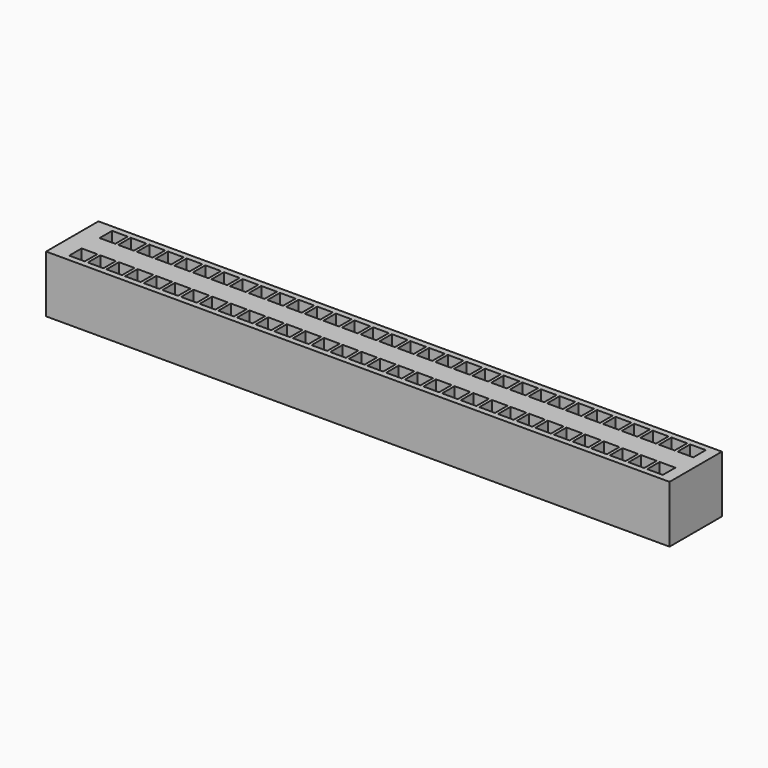
from build123d import *

# Parameters (mm, degrees)
F1_DEPTH = 15


with BuildPart() as f1:
    # F0 (on Top) → F1 (new body)
    with BuildSketch(Plane.XY):
        Polygon((2.600563, 5), (0, 5), (-0.4, 5), (-0.4, 2.95), (-4.5, 2.95), (-4.5, 5), (-5.3, 5), (-5.3, 2.95), (-9.4, 2.95), (-9.4, 5), (-9.8, 5), (-10.2, 5), (-10.2, 2.95), (-14.3, 2.95), (-14.3, 5), (-15.1, 5), (-15.1, 2.95), (-19.2, 2.95), (-19.2, 5), (-19.6, 5), (-20, 5), (-20, 2.95), (-24.1, 2.95), (-24.1, 5), (-24.9, 5), (-24.9, 2.95), (-29, 2.95), (-29, 5), (-29.4, 5), (-29.8, 5), (-29.8, 2.95), (-33.9, 2.95), (-33.9, 5), (-34.7, 5), (-34.7, 2.95), (-38.8, 2.95), (-38.8, 5), (-39.2, 5), (-39.6, 5), (-39.6, 2.95), (-43.7, 2.95), (-43.7, 5), (-44.5, 5), (-44.5, 2.95), (-48.6, 2.95), (-48.6, 5), (-49, 5), (-49.4, 5), (-49.4, 2.95), (-53.5, 2.95), (-53.5, 5), (-54.3, 5), (-54.3, 2.95), (-58.4, 2.95), (-58.4, 5), (-58.8, 5), (-59.2, 5), (-59.2, 2.95), (-63.3, 2.95), (-63.3, 5), (-64.1, 5), (-64.1, 2.95), (-68.2, 2.95), (-68.2, 5), (-68.6, 5), (-69, 5), (-69, 2.95), (-73.1, 2.95), (-73.1, 5), (-73.9, 5), (-73.9, 2.95), (-78, 2.95), (-78, 5), (-78.4, 5), (-78.8, 5), (-78.8, 2.95), (-82.9, 2.95), (-82.9, 5), (-83.7, 5), (-83.7, 2.95), (-87.8, 2.95), (-87.8, 5), (-88.2, 5), (-88.6, 5), (-88.6, 2.95), (-92.7, 2.95), (-92.7, 5), (-93.5, 5), (-93.5, 2.95), (-97.6, 2.95), (-97.6, 5), (-98, 5), (-98.4, 5), (-98.4, 2.95), (-102.5, 2.95), (-102.5, 5), (-103.3, 5), (-103.3, 2.95), (-107.4, 2.95), (-107.4, 5), (-107.8, 5), (-108.2, 5), (-108.2, 2.95), (-112.3, 2.95), (-112.3, 5), (-113.1, 5), (-113.1, 2.95), (-117.2, 2.95), (-117.2, 5), (-117.6, 5), (-118, 5), (-118, 2.95), (-122.1, 2.95), (-122.1, 5), (-122.9, 5), (-122.9, 2.95), (-127, 2.95), (-127, 5), (-127.4, 5), (-127.8, 5), (-127.8, 2.95), (-131.9, 2.95), (-131.9, 5), (-132.7, 5), (-132.7, 2.95), (-136.8, 2.95), (-136.8, 5), (-137.2, 5), (-137.6, 5), (-137.6, 2.95), (-141.7, 2.95), (-141.7, 5), (-142.5, 5), (-142.5, 2.95), (-146.6, 2.95), (-146.6, 5), (-147, 5), (-147.4, 5), (-147.4, 2.95), (-151.5, 2.95), (-151.5, 5), (-152.3, 5), (-152.3, 2.95), (-156.4, 2.95), (-156.4, 5), (-156.8, 5), (-160.812712, 5), (-161.233053, 5), (-161.233053, -8.6), (2.600563, -8.6), (2.600563, -5), align=None)
        Polygon((-152.3, -2.95), (-152.3, -5), (-152.3, -7.05), (-156.4, -7.05), (-156.4, -5), (-156.4, -2.95), align=None, mode=Mode.SUBTRACT)
        Polygon((-147.4, -2.95), (-147.4, -5), (-147.4, -7.05), (-151.5, -7.05), (-151.5, -5), (-151.5, -2.95), align=None, mode=Mode.SUBTRACT)
        Polygon((-142.5, -2.95), (-142.5, -5), (-142.5, -7.05), (-146.6, -7.05), (-146.6, -5), (-146.6, -2.95), align=None, mode=Mode.SUBTRACT)
        Polygon((-137.6, -2.95), (-137.6, -5), (-137.6, -7.05), (-141.7, -7.05), (-141.7, -5), (-141.7, -2.95), align=None, mode=Mode.SUBTRACT)
        Polygon((-132.7, -2.95), (-132.7, -5), (-132.7, -7.05), (-136.8, -7.05), (-136.8, -5), (-136.8, -2.95), align=None, mode=Mode.SUBTRACT)
        Polygon((-127.8, -2.95), (-127.8, -5), (-127.8, -7.05), (-131.9, -7.05), (-131.9, -5), (-131.9, -2.95), align=None, mode=Mode.SUBTRACT)
        Polygon((-122.9, -2.95), (-122.9, -5), (-122.9, -7.05), (-127, -7.05), (-127, -5), (-127, -2.95), align=None, mode=Mode.SUBTRACT)
        Polygon((-118, -2.95), (-118, -5), (-118, -7.05), (-122.1, -7.05), (-122.1, -5), (-122.1, -2.95), align=None, mode=Mode.SUBTRACT)
        Polygon((-113.1, -2.95), (-113.1, -5), (-113.1, -7.05), (-117.2, -7.05), (-117.2, -5), (-117.2, -2.95), align=None, mode=Mode.SUBTRACT)
        Polygon((-108.2, -2.95), (-108.2, -5), (-108.2, -7.05), (-112.3, -7.05), (-112.3, -5), (-112.3, -2.95), align=None, mode=Mode.SUBTRACT)
        Polygon((-103.3, -2.95), (-103.3, -5), (-103.3, -7.05), (-107.4, -7.05), (-107.4, -5), (-107.4, -2.95), align=None, mode=Mode.SUBTRACT)
        Polygon((-98.4, -2.95), (-98.4, -5), (-98.4, -7.05), (-102.5, -7.05), (-102.5, -5), (-102.5, -2.95), align=None, mode=Mode.SUBTRACT)
        Polygon((-93.5, -2.95), (-93.5, -5), (-93.5, -7.05), (-97.6, -7.05), (-97.6, -5), (-97.6, -2.95), align=None, mode=Mode.SUBTRACT)
        Polygon((-88.6, -2.95), (-88.6, -5), (-88.6, -7.05), (-92.7, -7.05), (-92.7, -5), (-92.7, -2.95), align=None, mode=Mode.SUBTRACT)
        Polygon((-83.7, -2.95), (-83.7, -5), (-83.7, -7.05), (-87.8, -7.05), (-87.8, -5), (-87.8, -2.95), align=None, mode=Mode.SUBTRACT)
        Polygon((-78.8, -2.95), (-78.8, -5), (-78.8, -7.05), (-82.9, -7.05), (-82.9, -5), (-82.9, -2.95), align=None, mode=Mode.SUBTRACT)
        Polygon((-73.9, -2.95), (-73.9, -5), (-73.9, -7.05), (-78, -7.05), (-78, -5), (-78, -2.95), align=None, mode=Mode.SUBTRACT)
        Polygon((-69, -2.95), (-69, -5), (-69, -7.05), (-73.1, -7.05), (-73.1, -5), (-73.1, -2.95), align=None, mode=Mode.SUBTRACT)
        Polygon((-64.1, -2.95), (-64.1, -5), (-64.1, -7.05), (-68.2, -7.05), (-68.2, -5), (-68.2, -2.95), align=None, mode=Mode.SUBTRACT)
        Polygon((-59.2, -2.95), (-59.2, -5), (-59.2, -7.05), (-63.3, -7.05), (-63.3, -5), (-63.3, -2.95), align=None, mode=Mode.SUBTRACT)
        Polygon((-54.3, -2.95), (-54.3, -5), (-54.3, -7.05), (-58.4, -7.05), (-58.4, -5), (-58.4, -2.95), align=None, mode=Mode.SUBTRACT)
        Polygon((-49.4, -2.95), (-49.4, -5), (-49.4, -7.05), (-53.5, -7.05), (-53.5, -5), (-53.5, -2.95), align=None, mode=Mode.SUBTRACT)
        Polygon((-44.5, -2.95), (-44.5, -5), (-44.5, -7.05), (-48.6, -7.05), (-48.6, -5), (-48.6, -2.95), align=None, mode=Mode.SUBTRACT)
        Polygon((-39.6, -2.95), (-39.6, -5), (-39.6, -7.05), (-43.7, -7.05), (-43.7, -5), (-43.7, -2.95), align=None, mode=Mode.SUBTRACT)
        Polygon((-34.7, -2.95), (-34.7, -5), (-34.7, -7.05), (-38.8, -7.05), (-38.8, -5), (-38.8, -2.95), align=None, mode=Mode.SUBTRACT)
        Polygon((-29.8, -2.95), (-29.8, -5), (-29.8, -7.05), (-33.9, -7.05), (-33.9, -5), (-33.9, -2.95), align=None, mode=Mode.SUBTRACT)
        Polygon((-24.9, -2.95), (-24.9, -5), (-24.9, -7.05), (-29, -7.05), (-29, -5), (-29, -2.95), align=None, mode=Mode.SUBTRACT)
        Polygon((-20, -2.95), (-20, -5), (-20, -7.05), (-24.1, -7.05), (-24.1, -5), (-24.1, -2.95), align=None, mode=Mode.SUBTRACT)
        Polygon((-15.1, -2.95), (-15.1, -5), (-15.1, -7.05), (-19.2, -7.05), (-19.2, -5), (-19.2, -2.95), align=None, mode=Mode.SUBTRACT)
        Polygon((-10.2, -2.95), (-10.2, -5), (-10.2, -7.05), (-14.3, -7.05), (-14.3, -5), (-14.3, -2.95), align=None, mode=Mode.SUBTRACT)
        Polygon((-5.3, -2.95), (-5.3, -5), (-5.3, -7.05), (-9.4, -7.05), (-9.4, -5), (-9.4, -2.95), align=None, mode=Mode.SUBTRACT)
        Polygon((-0.4, -2.95), (-0.4, -5), (-0.4, -7.05), (-4.5, -7.05), (-4.5, -5), (-4.5, -2.95), align=None, mode=Mode.SUBTRACT)
        Polygon((-0.4, 5), (0, 5), (2.600563, 5), (2.600563, 8.6), (-161.233053, 8.6), (-161.233053, 5), (-160.812712, 5), (-156.8, 5), (-156.4, 5), (-156.4, 7.05), (-152.3, 7.05), (-152.3, 5), (-151.5, 5), (-151.5, 7.05), (-147.4, 7.05), (-147.4, 5), (-147, 5), (-146.6, 5), (-146.6, 7.05), (-142.5, 7.05), (-142.5, 5), (-141.7, 5), (-141.7, 7.05), (-137.6, 7.05), (-137.6, 5), (-137.2, 5), (-136.8, 5), (-136.8, 7.05), (-132.7, 7.05), (-132.7, 5), (-131.9, 5), (-131.9, 7.05), (-127.8, 7.05), (-127.8, 5), (-127.4, 5), (-127, 5), (-127, 7.05), (-122.9, 7.05), (-122.9, 5), (-122.1, 5), (-122.1, 7.05), (-118, 7.05), (-118, 5), (-117.6, 5), (-117.2, 5), (-117.2, 7.05), (-113.1, 7.05), (-113.1, 5), (-112.3, 5), (-112.3, 7.05), (-108.2, 7.05), (-108.2, 5), (-107.8, 5), (-107.4, 5), (-107.4, 7.05), (-103.3, 7.05), (-103.3, 5), (-102.5, 5), (-102.5, 7.05), (-98.4, 7.05), (-98.4, 5), (-98, 5), (-97.6, 5), (-97.6, 7.05), (-93.5, 7.05), (-93.5, 5), (-92.7, 5), (-92.7, 7.05), (-88.6, 7.05), (-88.6, 5), (-88.2, 5), (-87.8, 5), (-87.8, 7.05), (-83.7, 7.05), (-83.7, 5), (-82.9, 5), (-82.9, 7.05), (-78.8, 7.05), (-78.8, 5), (-78.4, 5), (-78, 5), (-78, 7.05), (-73.9, 7.05), (-73.9, 5), (-73.1, 5), (-73.1, 7.05), (-69, 7.05), (-69, 5), (-68.6, 5), (-68.2, 5), (-68.2, 7.05), (-64.1, 7.05), (-64.1, 5), (-63.3, 5), (-63.3, 7.05), (-59.2, 7.05), (-59.2, 5), (-58.8, 5), (-58.4, 5), (-58.4, 7.05), (-54.3, 7.05), (-54.3, 5), (-53.5, 5), (-53.5, 7.05), (-49.4, 7.05), (-49.4, 5), (-49, 5), (-48.6, 5), (-48.6, 7.05), (-44.5, 7.05), (-44.5, 5), (-43.7, 5), (-43.7, 7.05), (-39.6, 7.05), (-39.6, 5), (-39.2, 5), (-38.8, 5), (-38.8, 7.05), (-34.7, 7.05), (-34.7, 5), (-33.9, 5), (-33.9, 7.05), (-29.8, 7.05), (-29.8, 5), (-29.4, 5), (-29, 5), (-29, 7.05), (-24.9, 7.05), (-24.9, 5), (-24.1, 5), (-24.1, 7.05), (-20, 7.05), (-20, 5), (-19.6, 5), (-19.2, 5), (-19.2, 7.05), (-15.1, 7.05), (-15.1, 5), (-14.3, 5), (-14.3, 7.05), (-10.2, 7.05), (-10.2, 5), (-9.8, 5), (-9.4, 5), (-9.4, 7.05), (-5.3, 7.05), (-5.3, 5), (-4.5, 5), (-4.5, 7.05), (-0.4, 7.05), align=None)
    extrude(amount=F1_DEPTH)


solid = f1.part
